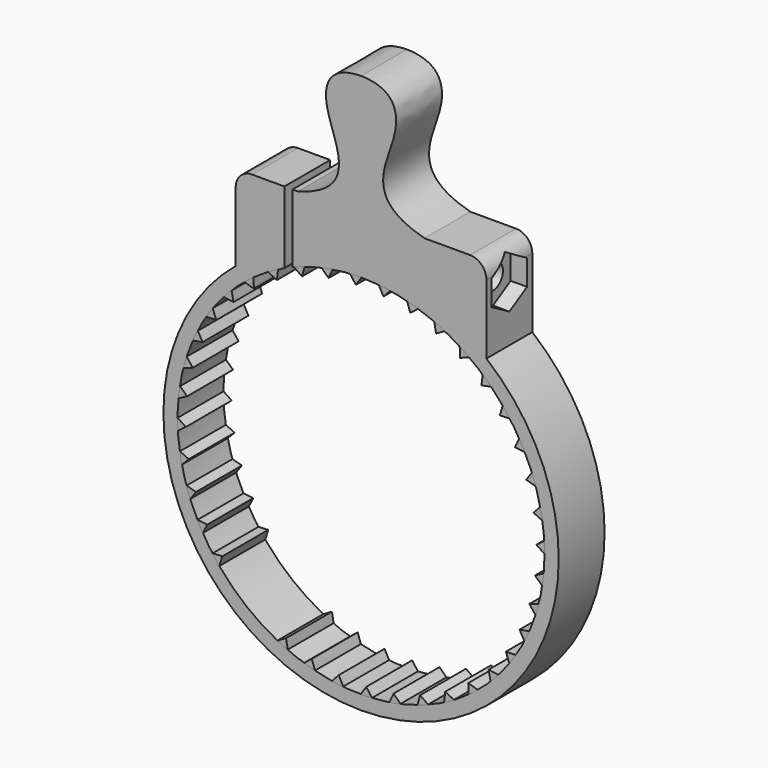
from build123d import *

# Parameters (mm, degrees)
F0_R      = 24.125
F0_R_2    = 22.4
F3_DEPTH  = 7
F4_DEPTH  = 7
F5_COUNT  = 40
F6_DEPTH  = 7
F7_R      = 1.525
F8_DEPTH  = 39.4260001
F9_W      = 1
F9_H      = 8.7757138847
F10_DEPTH = 7.0010001
F11_R     = 1.525
F12_DEPTH = 2


with BuildPart() as f3:
    # F0 (on Front) → F3 (new body)
    with BuildSketch(Plane.XZ):
        Circle(F0_R)
        Circle(F0_R_2, mode=Mode.SUBTRACT)
    extrude(amount=F3_DEPTH)

    # F2 (on Front) → F6 (join)
    with BuildSketch(Plane.XZ):
        with BuildLine():
            Line((-15.3, 27.125), (-15.3, 18.6527645404))
            ThreePointArc((-15.3, 18.6527645404), (0, 24.125), (15.3, 18.6527645404))
            Line((15.3, 18.6527645404), (15.3, 27.125))
            ThreePointArc((15.3, 27.125), (14.7142135624, 28.5392135624), (13.3, 29.125))
            Line((13.3, 29.125), (7.7286839279, 29.125))
            Line((7.7286839279, 29.125), (0, 29.125))
            Line((0, 29.125), (-7.7286839279, 29.125))
            Line((-7.7286839279, 29.125), (-13.3, 29.125))
            ThreePointArc((-13.3, 29.125), (-14.7142135624, 28.5392135624), (-15.3, 27.125))
        make_face()
        with BuildLine():
            add(Edge.make_bspline(
                [(-7.7286839279, 29.125), (0, 31.2243746167), (-5.8121531495, 39.0394264766), (-3.8833331539, 43.9718042576), (0, 44.0491546183)],
                knots=[0, 0, 0, 0, 0.5627340053, 1, 1, 1, 1], degree=3))
            Line((-7.7286839279, 29.125), (0, 29.125))
            Line((0, 29.125), (7.7286839279, 29.125))
            add(Edge.make_bspline(
                [(7.7286839279, 29.125), (0, 31.2243746167), (5.8121531495, 39.0394264766), (3.8833331539, 43.9718042576), (0, 44.0491546183)],
                knots=[0, 0, 0, 0, 0.5627340053, 1, 1, 1, 1], degree=3))
        make_face()
    extrude(amount=F6_DEPTH)

    # F7 (on face) → F8 (cut, through all)
    with BuildSketch(Plane(origin=(-15.3, 0, 0), x_dir=(0, -1, 0), z_dir=(-1, 0, 0))):
        with Locations((3.5, 25.3955118045)):
            Circle(F7_R)
    extrude(amount=-F8_DEPTH, mode=Mode.SUBTRACT)

    # F9 (on face) → F10 (cut, through all)
    with BuildSketch(Plane.XZ.offset(7)):
        with Locations((-8.8630419522, 24.7371430576)):
            Rectangle(F9_W, F9_H)
    extrude(amount=-F10_DEPTH, mode=Mode.SUBTRACT)

    # F11 (on face) → F12 (cut)
    with BuildSketch(Plane.YZ.offset(15.3)):
        Polygon((-6.2, 26.9543575313), (-6.2, 23.8366660777), (-3.5, 22.2778203509), (-0.8, 23.8366660777), (-0.8, 26.9543575313), (-1.0955614257, 27.125), (-5.9044385743, 27.125), align=None)
        with Locations((-3.5, 25.3955118045)):
            Circle(F11_R, mode=Mode.SUBTRACT)
        Polygon((-3.5, 28.5132032581), (-5.9044385743, 27.125), (-1.0955614257, 27.125), align=None)
    extrude(amount=-F12_DEPTH, mode=Mode.SUBTRACT)


with BuildPart() as f4:
    # F1 (on Front) → F4 (new body)
    with BuildSketch(Plane.XZ):
        with BuildLine():
            ThreePointArc((10.2065462275, 19.9395690552), (9.578449812, 20.248785129), (8.9409971569, 20.5382221684))
            Line((8.9409971569, 20.5382221684), (9.1508404454, 19.3448215071))
            Line((9.1508404454, 19.3448215071), (10.2065462275, 19.9395690552))
        make_face()
    extrude(amount=F4_DEPTH)


with BuildPart() as f5_1:
    # F5: instance of F4
    add(f4.part.rotate(Axis((0, -7, 0), (0, -1, 0)), 1 * 360 / F5_COUNT))


with BuildPart() as f5_2:
    # F5: instance of F4
    add(f4.part.rotate(Axis((0, -7, 0), (0, -1, 0)), 2 * 360 / F5_COUNT))


with BuildPart() as f5_3:
    # F5: instance of F4
    add(f4.part.rotate(Axis((0, -7, 0), (0, -1, 0)), 3 * 360 / F5_COUNT))


with BuildPart() as f5_4:
    # F5: instance of F4
    add(f4.part.rotate(Axis((0, -7, 0), (0, -1, 0)), 4 * 360 / F5_COUNT))


with BuildPart() as f5_5:
    # F5: instance of F4
    add(f4.part.rotate(Axis((0, -7, 0), (0, -1, 0)), 5 * 360 / F5_COUNT))


with BuildPart() as f5_6:
    # F5: instance of F4
    add(f4.part.rotate(Axis((0, -7, 0), (0, -1, 0)), 6 * 360 / F5_COUNT))


with BuildPart() as f5_7:
    # F5: instance of F4
    add(f4.part.rotate(Axis((0, -7, 0), (0, -1, 0)), 7 * 360 / F5_COUNT))


with BuildPart() as f5_8:
    # F5: instance of F4
    add(f4.part.rotate(Axis((0, -7, 0), (0, -1, 0)), 8 * 360 / F5_COUNT))


with BuildPart() as f5_9:
    # F5: instance of F4
    add(f4.part.rotate(Axis((0, -7, 0), (0, -1, 0)), 9 * 360 / F5_COUNT))


with BuildPart() as f5_10:
    # F5: instance of F4
    add(f4.part.rotate(Axis((0, -7, 0), (0, -1, 0)), 10 * 360 / F5_COUNT))


with BuildPart() as f5_11:
    # F5: instance of F4
    add(f4.part.rotate(Axis((0, -7, 0), (0, -1, 0)), 11 * 360 / F5_COUNT))


with BuildPart() as f5_12:
    # F5: instance of F4
    add(f4.part.rotate(Axis((0, -7, 0), (0, -1, 0)), 12 * 360 / F5_COUNT))


with BuildPart() as f5_13:
    # F5: instance of F4
    add(f4.part.rotate(Axis((0, -7, 0), (0, -1, 0)), 13 * 360 / F5_COUNT))


with BuildPart() as f5_14:
    # F5: instance of F4
    add(f4.part.rotate(Axis((0, -7, 0), (0, -1, 0)), 14 * 360 / F5_COUNT))


with BuildPart() as f5_15:
    # F5: instance of F4
    add(f4.part.rotate(Axis((0, -7, 0), (0, -1, 0)), 15 * 360 / F5_COUNT))


with BuildPart() as f5_16:
    # F5: instance of F4
    add(f4.part.rotate(Axis((0, -7, 0), (0, -1, 0)), 16 * 360 / F5_COUNT))


with BuildPart() as f5_17:
    # F5: instance of F4
    add(f4.part.rotate(Axis((0, -7, 0), (0, -1, 0)), 17 * 360 / F5_COUNT))


with BuildPart() as f5_18:
    # F5: instance of F4
    add(f4.part.rotate(Axis((0, -7, 0), (0, -1, 0)), 18 * 360 / F5_COUNT))


with BuildPart() as f5_19:
    # F5: instance of F4
    add(f4.part.rotate(Axis((0, -7, 0), (0, -1, 0)), 19 * 360 / F5_COUNT))


with BuildPart() as f5_20:
    # F5: instance of F4
    add(f4.part.rotate(Axis((0, -7, 0), (0, -1, 0)), 20 * 360 / F5_COUNT))


with BuildPart() as f5_21:
    # F5: instance of F4
    add(f4.part.rotate(Axis((0, -7, 0), (0, -1, 0)), 21 * 360 / F5_COUNT))


with BuildPart() as f5_22:
    # F5: instance of F4
    add(f4.part.rotate(Axis((0, -7, 0), (0, -1, 0)), 22 * 360 / F5_COUNT))


with BuildPart() as f5_23:
    # F5: instance of F4
    add(f4.part.rotate(Axis((0, -7, 0), (0, -1, 0)), 23 * 360 / F5_COUNT))


with BuildPart() as f5_24:
    # F5: instance of F4
    add(f4.part.rotate(Axis((0, -7, 0), (0, -1, 0)), 24 * 360 / F5_COUNT))


with BuildPart() as f5_25:
    # F5: instance of F4
    add(f4.part.rotate(Axis((0, -7, 0), (0, -1, 0)), 25 * 360 / F5_COUNT))


with BuildPart() as f5_26:
    # F5: instance of F4
    add(f4.part.rotate(Axis((0, -7, 0), (0, -1, 0)), 26 * 360 / F5_COUNT))


with BuildPart() as f5_27:
    # F5: instance of F4
    add(f4.part.rotate(Axis((0, -7, 0), (0, -1, 0)), 27 * 360 / F5_COUNT))


with BuildPart() as f5_28:
    # F5: instance of F4
    add(f4.part.rotate(Axis((0, -7, 0), (0, -1, 0)), 28 * 360 / F5_COUNT))


with BuildPart() as f5_29:
    # F5: instance of F4
    add(f4.part.rotate(Axis((0, -7, 0), (0, -1, 0)), 29 * 360 / F5_COUNT))


with BuildPart() as f5_30:
    # F5: instance of F4
    add(f4.part.rotate(Axis((0, -7, 0), (0, -1, 0)), 30 * 360 / F5_COUNT))


with BuildPart() as f5_31:
    # F5: instance of F4
    add(f4.part.rotate(Axis((0, -7, 0), (0, -1, 0)), 31 * 360 / F5_COUNT))


with BuildPart() as f5_32:
    # F5: instance of F4
    add(f4.part.rotate(Axis((0, -7, 0), (0, -1, 0)), 32 * 360 / F5_COUNT))


with BuildPart() as f5_33:
    # F5: instance of F4
    add(f4.part.rotate(Axis((0, -7, 0), (0, -1, 0)), 33 * 360 / F5_COUNT))


with BuildPart() as f5_34:
    # F5: instance of F4
    add(f4.part.rotate(Axis((0, -7, 0), (0, -1, 0)), 34 * 360 / F5_COUNT))


with BuildPart() as f5_35:
    # F5: instance of F4
    add(f4.part.rotate(Axis((0, -7, 0), (0, -1, 0)), 35 * 360 / F5_COUNT))


with BuildPart() as f5_36:
    # F5: instance of F4
    add(f4.part.rotate(Axis((0, -7, 0), (0, -1, 0)), 36 * 360 / F5_COUNT))


with BuildPart() as f5_37:
    # F5: instance of F4
    add(f4.part.rotate(Axis((0, -7, 0), (0, -1, 0)), 37 * 360 / F5_COUNT))


with BuildPart() as f5_38:
    # F5: instance of F4
    add(f4.part.rotate(Axis((0, -7, 0), (0, -1, 0)), 38 * 360 / F5_COUNT))


with BuildPart() as f5_39:
    # F5: instance of F4
    add(f4.part.rotate(Axis((0, -7, 0), (0, -1, 0)), 39 * 360 / F5_COUNT))


solid = Compound([f3.part, f4.part, f5_1.part, f5_2.part, f5_3.part, f5_4.part, f5_5.part, f5_6.part, f5_7.part, f5_8.part, f5_9.part, f5_10.part, f5_11.part, f5_12.part, f5_13.part, f5_14.part, f5_15.part, f5_16.part, f5_17.part, f5_20.part, f5_21.part, f5_22.part, f5_23.part, f5_24.part, f5_25.part, f5_26.part, f5_27.part, f5_28.part, f5_29.part, f5_30.part, f5_31.part, f5_32.part, f5_33.part, f5_34.part, f5_35.part, f5_36.part, f5_37.part, f5_38.part, f5_39.part])
